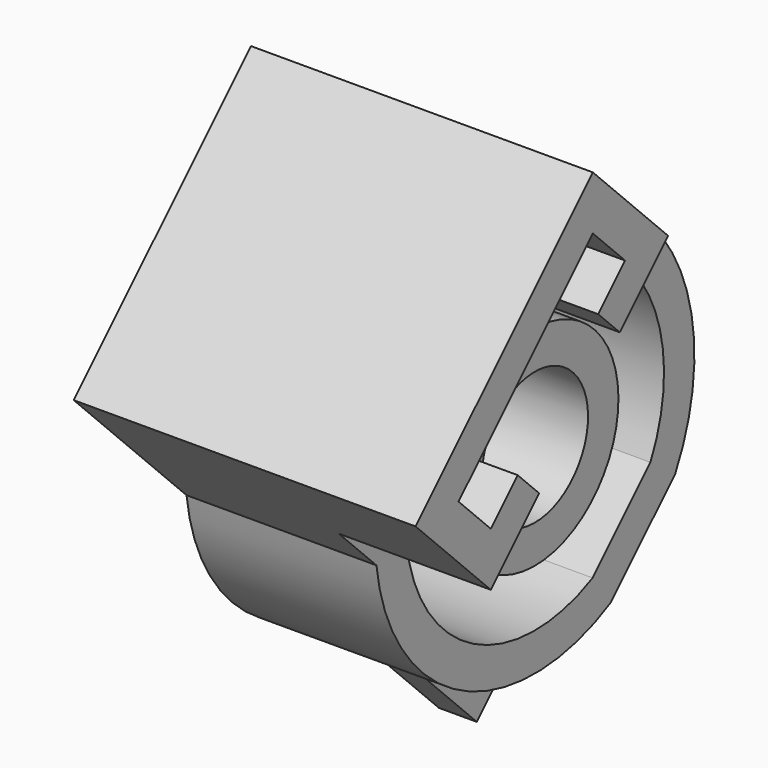
from build123d import *

# Parameters (mm, degrees)
PAD_DEPTH            = 10
THICKNESS_T          = -2
PAD001_DEPTH         = 18
SKETCH002_R          = 5.5
SKETCH002_R_2        = 3.5
PAD002_DEPTH         = 8
SKETCH003_W          = 33.990382
SKETCH003_H          = 16.5
PAD003_DEPTH         = 2
BODY_PLACEMENT_ANGLE = 134.999996


with BuildPart() as part:
    # Sketch → Pad (new body)
    with BuildSketch(Plane.YZ):
        with BuildLine():
            ThreePointArc((6.495191, 8.25), (-3.173595, 10.008911), (-10.062306, 3))
            Line((-10.062306, 3), (-10.062306, -3))
            ThreePointArc((-10.062306, -3), (-3.173595, -10.008911), (6.495191, -8.25))
            Line((6.495191, -8.25), (16.995191, -8.25))
            Line((16.995191, -8.25), (16.995191, 8.25))
            Line((16.995191, 8.25), (6.495191, 8.25))
        make_face()
    extrude(amount=PAD_DEPTH)

    # Thickness
    thickness_openings = [part.faces().sort_by_distance(p)[0] for p in [
        (10, 3.557762, 0),
    ]]
    offset(amount=THICKNESS_T, openings=thickness_openings)

    # Sketch001 → Pad001 (join)
    with BuildSketch(Plane.YZ):
        Polygon((16.995191, 8.25), (9.995191, 8.25), (9.995191, 3.75), (11.995191, 3.75), (11.995191, 6.25), (14.995191, 6.25), (14.995191, -6.249983), (11.995191, -6.25), (11.995191, -3.75), (9.995191, -3.75), (9.995191, -8.25), (16.995191, -8.25), align=None)
    extrude(amount=PAD001_DEPTH)

    # Sketch002 (on Face22 of Pad001) → Pad002 (join)
    with BuildSketch(Plane.YZ.offset(2)):
        Circle(SKETCH002_R)
        Circle(SKETCH002_R_2, mode=Mode.SUBTRACT)
    extrude(amount=PAD002_DEPTH)

    # Sketch003 → Pad003 (join)
    with BuildSketch(Plane.YZ):
        Rectangle(SKETCH003_W, SKETCH003_H)
    extrude(amount=PAD003_DEPTH)


with BuildPart() as part_1:
    # Body placement: moved
    add(part.part.moved(Location((0, -24.041634, 2.828429))).rotate(Axis((0, -24.041634, 2.828429), (1, 0, 0)), BODY_PLACEMENT_ANGLE))


solid = part_1.part
